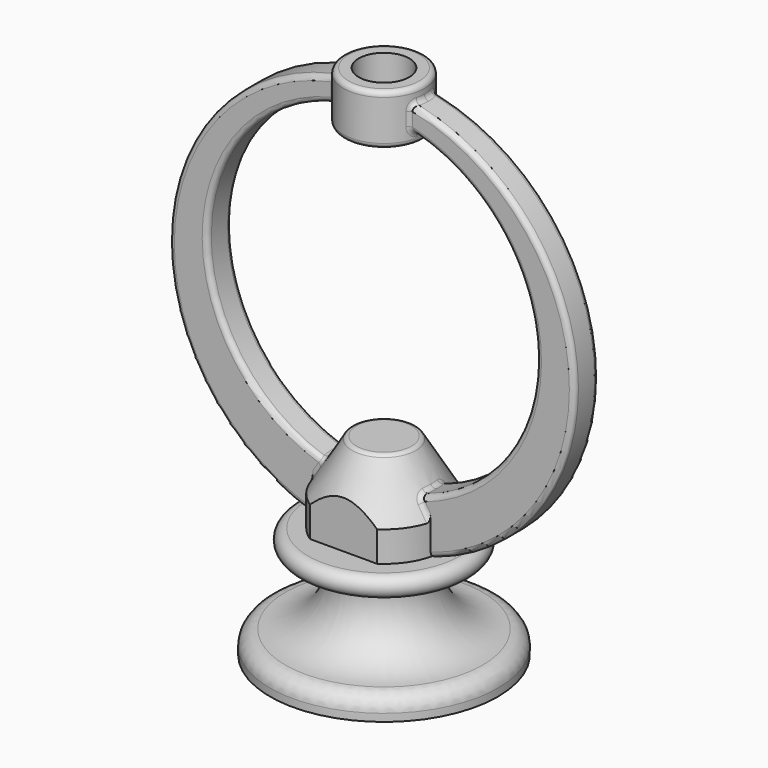
from build123d import *

# Parameters (mm, degrees)
SKETCH001_R     = 40
SKETCH001_R_2   = 32.5
PAD_DEPTH       = 3
SKETCH003_R     = 8
PAD001_DEPTH    = 10
SKETCH004_R     = 5
POCKET_DEPTH    = 10
FILLET_R        = 1
FILLET001_R     = 1
FILLET002_R     = 1
FILLET003_R     = 1
FILLET004_R     = 1
FILLET005_R     = 1
FILLET006_R     = 1
FILLET007_R     = 1
FILLET008_R     = 1
FILLET009_R     = 1
FILLET010_R     = 1
FILLET011_R     = 1
FILLET012_R     = 1
FILLET013_R     = 1
FILLET014_R     = 2
FILLET015_R     = 3
FILLET016_R     = 1
SKETCH007_W     = 60
SKETCH007_H     = 20
POCKET001_DEPTH = 20


with BuildPart() as part:
    # Sketch → Revolution (revolve)
    with BuildSketch(Plane.XZ):
        with BuildLine():
            Line((0, 0), (22.5, 0))
            Line((22.5, 0), (22.5, 5))
            ThreePointArc((10, 18), (12.157762, 7.565155), (22.5, 5))
            Line((10, 18), (0, 18))
            Line((0, 18), (0, 0))
        make_face()
        with BuildLine():
            ThreePointArc((15, 18), (17, 20), (15, 22))
            Line((0, 22), (15, 22))
            Line((0, 22), (0, 18))
            Line((0, 18), (15, 18))
        make_face()
    revolve(axis=Axis((0, 0, 0), (0, 0, 1)))

    # Sketch001 → Pad (new body, symmetric)
    with BuildSketch(Plane.XZ):
        with Locations((0, 60)):
            Circle(SKETCH001_R)
        with Locations((0, 63)):
            Circle(SKETCH001_R_2, mode=Mode.SUBTRACT)
    extrude(amount=PAD_DEPTH, both=True)

    # Sketch002 → Revolution001 (revolve)
    with BuildSketch(Plane.XZ):
        Polygon((0, 22), (12, 22), (12, 28), (6, 38), (0, 38), align=None)
    revolve(axis=Axis((0, 0, 0), (0, 0, 1)))

    # Sketch003 → Pad001 (join)
    with BuildSketch(Plane.XY.offset(102)):
        Circle(SKETCH003_R)
    extrude(amount=-PAD001_DEPTH)

    # Sketch004 → Pocket (cut)
    with BuildSketch(Plane.XY.offset(102)):
        Circle(SKETCH004_R)
    extrude(amount=-POCKET_DEPTH, mode=Mode.SUBTRACT)

    # Fillet
    fillet_edges = [part.edges().sort_by_distance(p)[0] for p in [
        (30.794869, -3, 85.527946),
    ]]
    fillet(fillet_edges, radius=FILLET_R)

    # Fillet001
    fillet001_edges = [part.edges().sort_by_distance(p)[0] for p in [
        (-39.914126, -3, 62.619653),
    ]]
    fillet(fillet001_edges, radius=FILLET001_R)

    # Fillet002
    fillet002_edges = [part.edges().sort_by_distance(p)[0] for p in [
        (-39.914126, 3, 62.619653),
    ]]
    fillet(fillet002_edges, radius=FILLET002_R)

    # Fillet003
    fillet003_edges = [part.edges().sort_by_distance(p)[0] for p in [
        (30.794869, 3, 85.527946),
    ]]
    fillet(fillet003_edges, radius=FILLET003_R)

    # Fillet004
    fillet004_edges = [part.edges().sort_by_distance(p)[0] for p in [
        (25.468377, -3, 83.189398),
    ]]
    fillet(fillet004_edges, radius=FILLET004_R)

    # Fillet005
    fillet005_edges = [part.edges().sort_by_distance(p)[0] for p in [
        (-32.486564, -3, 63.934415),
    ]]
    fillet(fillet005_edges, radius=FILLET005_R)

    # Fillet006
    fillet006_edges = [part.edges().sort_by_distance(p)[0] for p in [
        (-32.486564, 3, 63.934415),
    ]]
    fillet(fillet006_edges, radius=FILLET006_R)

    # Fillet007
    fillet007_edges = [part.edges().sort_by_distance(p)[0] for p in [
        (26.038318, 3, 43.551196),
    ]]
    fillet(fillet007_edges, radius=FILLET007_R)

    # Fillet008
    fillet008_edges = [part.edges().sort_by_distance(p)[0] for p in [
        (-8, 0, 99.191836),
    ]]
    fillet(fillet008_edges, radius=FILLET008_R)

    # Fillet009
    fillet009_edges = [part.edges().sort_by_distance(p)[0] for p in [
        (7.416198, -3, 96.978586),
    ]]
    fillet(fillet009_edges, radius=FILLET009_R)

    # Fillet010
    fillet010_edges = [part.edges().sort_by_distance(p)[0] for p in [
        (9.580925, -1.004265, 31.94431),
    ]]
    fillet(fillet010_edges, radius=FILLET010_R)

    # Fillet011
    fillet011_edges = [part.edges().sort_by_distance(p)[0] for p in [
        (-9.580925, 1.004265, 31.94431),
    ]]
    fillet(fillet011_edges, radius=FILLET011_R)

    # Fillet012
    fillet012_edges = [part.edges().sort_by_distance(p)[0] for p in [
        (-8, 0, 92),
    ]]
    fillet(fillet012_edges, radius=FILLET012_R)

    # Fillet013
    fillet013_edges = [part.edges().sort_by_distance(p)[0] for p in [
        (-8, 0, 102),
    ]]
    fillet(fillet013_edges, radius=FILLET013_R)

    # Fillet014
    fillet014_edges = [part.edges().sort_by_distance(p)[0] for p in [
        (-10, 0, 18),
    ]]
    fillet(fillet014_edges, radius=FILLET014_R)

    # Fillet015
    fillet015_edges = [part.edges().sort_by_distance(p)[0] for p in [
        (-22.5, 0, 5),
    ]]
    fillet(fillet015_edges, radius=FILLET015_R)

    # Fillet016
    fillet016_edges = [part.edges().sort_by_distance(p)[0] for p in [
        (-6, 0, 38),
    ]]
    fillet(fillet016_edges, radius=FILLET016_R)

    # Sketch005 → Groove (revolve, cut)
    with BuildSketch(Plane.XZ):
        with BuildLine():
            Line((0, 0), (19.5, 0))
            Line((19.5, 0), (19.5, 2.5))
            ThreePointArc((9.847154, 6.711676), (14.262447, 3.663558), (19.5, 2.5))
            ThreePointArc((7, 13.7), (7.739104, 9.926973), (9.847154, 6.711676))
            Line((7, 18), (7, 13.7))
            Line((7, 18), (0, 18))
            Line((0, 18), (0, 0))
        make_face()
    revolve(axis=Axis((0, 0, 0), (0, 0, 1)), mode=Mode.SUBTRACT)

    # Sketch007 (on Face24 of Groove) → Pocket001 (cut)
    with BuildSketch(Plane(origin=(0, 0, 22), x_dir=(-1, 0, 0), z_dir=(0, 0, 1))):
        with Locations((0, 20)):
            Rectangle(SKETCH007_W, SKETCH007_H)
        with Locations((0, -20)):
            Rectangle(SKETCH007_W, SKETCH007_H)
    extrude(amount=POCKET001_DEPTH, mode=Mode.SUBTRACT)


solid = part.part
